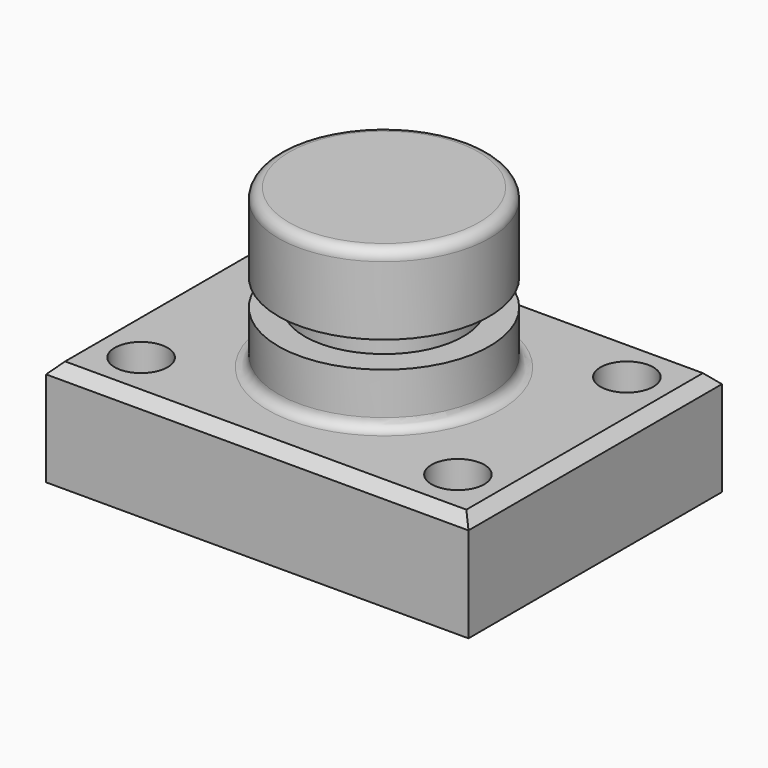
from build123d import *

# Parameters (mm, degrees)
F0_W     = 101.6
F0_H     = 76.2
F1_DEPTH = 25.4
F2_R     = 6.35
F3_DEPTH = 25.4
F4_W     = 25.4
F4_H     = 38.1
F6_W     = 23.010891
F6_H     = 6.35
F8_SIZE  = 2.54
F9_R     = 2.54


with BuildPart() as f1:
    # F0 (on Top) → F1 (new body)
    with BuildSketch(Plane.XY):
        Rectangle(F0_W, F0_H)
    extrude(amount=F1_DEPTH)

    # F2 (on face) → F3 (cut)
    with BuildSketch(Plane.XY.offset(25.4)):
        with Locations((-38.1, 25.4)):
            Circle(F2_R)
        with Locations((38.1, 25.4)):
            Circle(F2_R)
        with Locations((38.1, -25.4)):
            Circle(F2_R)
        with Locations((-38.1, -25.4)):
            Circle(F2_R)
    extrude(amount=-F3_DEPTH, mode=Mode.SUBTRACT)

    # F4 (on Front) → F5 (revolve)
    with BuildSketch(Plane.XZ):
        with Locations((-12.7, 44.45)):
            Rectangle(F4_W, F4_H)
    revolve(axis=Axis((0, 0, 44.45), (0, 0, -1)))

    # F6 (on Front) → F7 (revolve, cut)
    with BuildSketch(Plane.XZ):
        with Locations((-30.555445, 41.275)):
            Rectangle(F6_W, F6_H)
    revolve(axis=Axis((0, 0, 63.5), (0, 0, -1)), mode=Mode.SUBTRACT)

    # F8
    f8_edges = [f1.edges().sort_by_distance(p)[0] for p in [
        (0, -38.1, 25.4),
        (50.8, 0, 25.4),
        (-50.8, 0, 25.4),
        (0, 38.1, 25.4),
    ]]
    chamfer(f8_edges, length=F8_SIZE)

    # F9
    f9_edges = [f1.edges().sort_by_distance(p)[0] for p in [
        (25.4, 0, 63.5),
        (25.4, 0, 25.4),
    ]]
    fillet(f9_edges, radius=F9_R)


solid = f1.part
